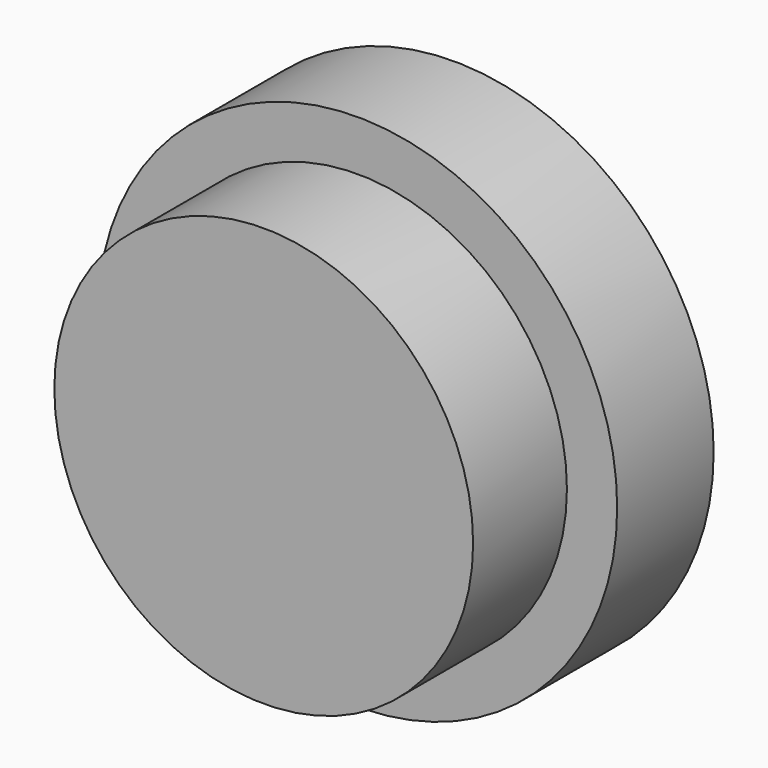
from build123d import *

# Parameters (mm, degrees)
F0_R     = 1549.999952
F0_R_2   = 1250
F1_DEPTH = 720
F2_R     = 1250
F3_DEPTH = 700


with BuildPart() as f1:
    # F0 (on Front) → F1 (new body)
    with BuildSketch(Plane.XZ):
        Circle(F0_R)
        Circle(F0_R_2, mode=Mode.SUBTRACT)
    extrude(amount=F1_DEPTH)


with BuildPart() as f3:
    # F2 (on face) → F3 (new body)
    with BuildSketch(Plane.XZ.offset(720)):
        Circle(F2_R)
    extrude(amount=F3_DEPTH)


solid = Compound([f1.part, f3.part])
